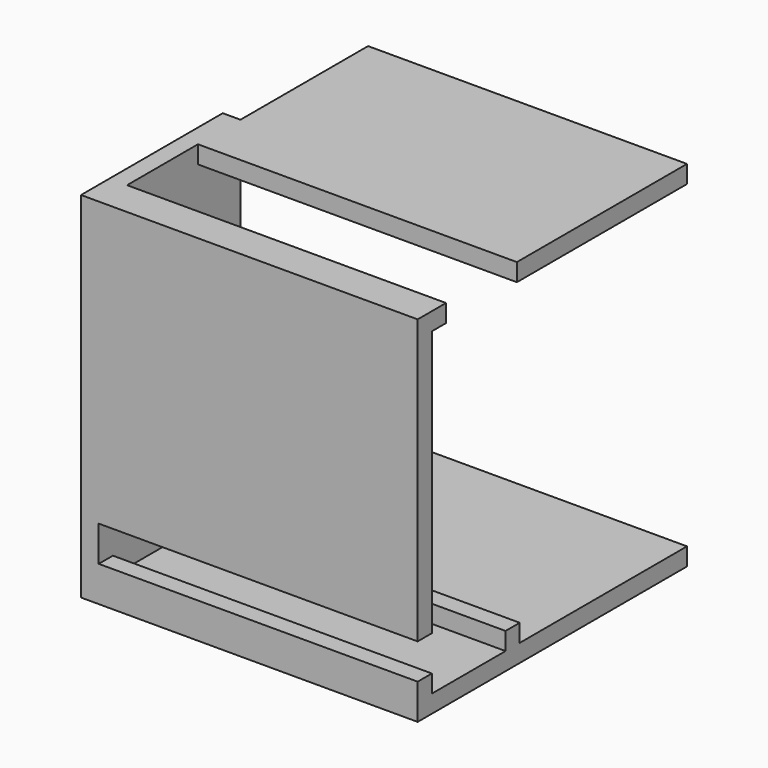
from build123d import *

# Parameters (mm, degrees)
F3_W     = 50
F3_H     = 100
F4_DEPTH = 5
F0_W     = 5
F0_H     = 5
F2_W     = 60
F2_H     = 5
F5_DEPTH = 90
F6_ANGLE = 90
F7_ANGLE = 90


with BuildPart() as f4:
    # F3 (on Top) → F4 (new body)
    with BuildSketch(Plane.XY):
        with Locations((25, 50)):
            Rectangle(F3_W, F3_H)
    extrude(amount=-F4_DEPTH)

    # F0 (on Top) + F1 (on Top) + F2 (on Top) → F5 (join)
    with BuildSketch(Plane.XY):
        Polygon((0, 10), (0, 0), (95, 0), (95, 5), (36, 5), (31, 5), (5, 5), (5, 10), align=None)
        with Locations((33.5, 7.5)):
            Rectangle(F0_W, F0_H)
    with BuildSketch(Plane.XY):
        Polygon((0, 100), (0, 20), (5, 20), (5, 95), (10, 95), (10, 100), align=None)
    with BuildSketch(Plane.XY):
        with Locations((65, 97.5)):
            Rectangle(F2_W, F2_H)
    extrude(amount=F5_DEPTH)


with BuildPart() as f4_1:
    # F6: moved
    add(f4.part.rotate(Axis((25, 0, -5), (1, 0, 0)), F6_ANGLE))


with BuildPart() as f4_2:
    # F7: moved
    add(f4_1.part.rotate(Axis((0, 0, 45), (0, 0, 1)), F7_ANGLE))


solid = f4_2.part
